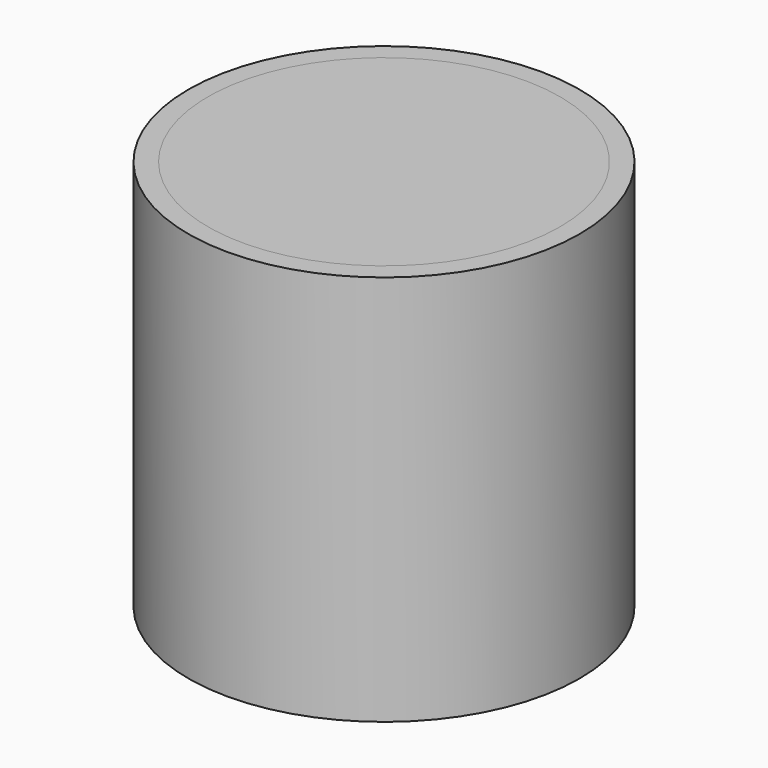
from build123d import *

# Parameters (mm, degrees)
CYLINDER001_R     = 4.5
CYLINDER001_DEPTH = 10
CYLINDER_R        = 5
CYLINDER_DEPTH    = 10
CYLINDER002_R     = 4.5
CYLINDER002_DEPTH = 10


with BuildPart() as cylinder001:
    # Cylinder001 → Cylinder001 (new body)
    with BuildSketch(Plane.XY):
        Circle(CYLINDER001_R)
    extrude(amount=CYLINDER001_DEPTH)


with BuildPart() as cut:
    # Cylinder → Cylinder (new body)
    with BuildSketch(Plane.XY):
        Circle(CYLINDER_R)
    extrude(amount=CYLINDER_DEPTH)

    # Cut: cut Cylinder001
    add(cylinder001.part, mode=Mode.SUBTRACT)


with BuildPart() as cylinder002:
    # Cylinder002 → Cylinder002 (new body)
    with BuildSketch(Plane.XY):
        Circle(CYLINDER002_R)
    extrude(amount=CYLINDER002_DEPTH)


solid = Compound([cut.part, cylinder002.part])
